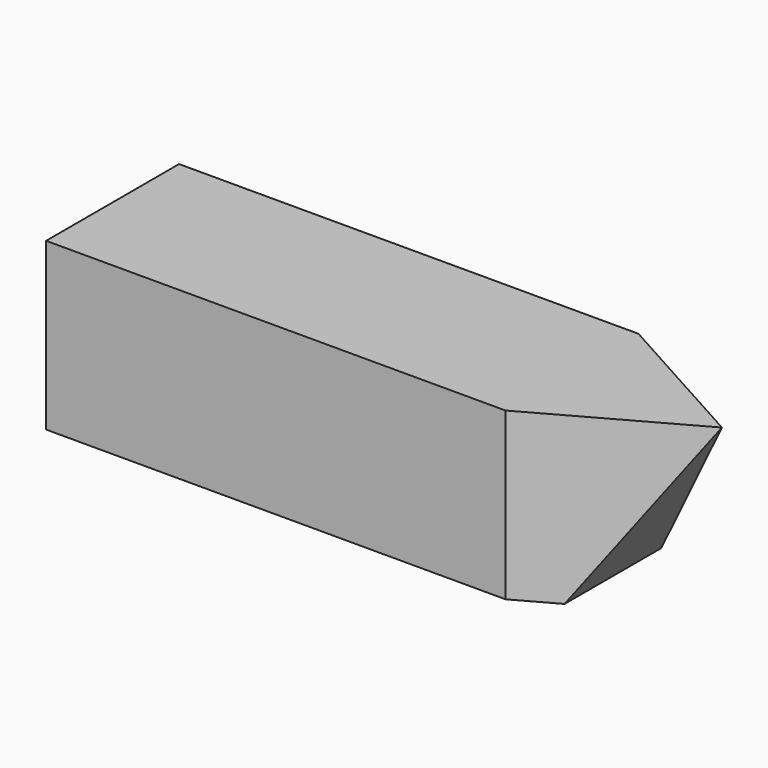
from build123d import *

# Parameters (mm, degrees)
F0_W     = 279.4
F0_H     = 76.2
F1_DEPTH = 76.2
F3_DEPTH = 76.201
F5_DEPTH = 76.201


with BuildPart() as f1:
    # F0 (on Top) → F1 (new body)
    with BuildSketch(Plane.XY):
        with Locations((-11.931214, -48.632389)):
            Rectangle(F0_W, F0_H)
    extrude(amount=F1_DEPTH)

    # F2 (on face) → F3 (cut, through all)
    with BuildSketch(Plane.XZ.offset(86.732389)):
        Polygon((127.768786, 0), (127.768786, 76.2), (77.787049, 0), align=None)
    extrude(amount=-F3_DEPTH, mode=Mode.SUBTRACT)

    # F4 (on face) → F5 (cut, through all)
    with BuildSketch(Plane.XY.offset(76.2)):
        Polygon((59.04955, -10.532389), (127.768786, -48.632389), (127.768786, -10.532389), align=None)
        Polygon((127.768786, -48.632389), (59.04955, -86.732389), (127.768786, -86.732389), align=None)
    extrude(amount=-F5_DEPTH, mode=Mode.SUBTRACT)


solid = f1.part
